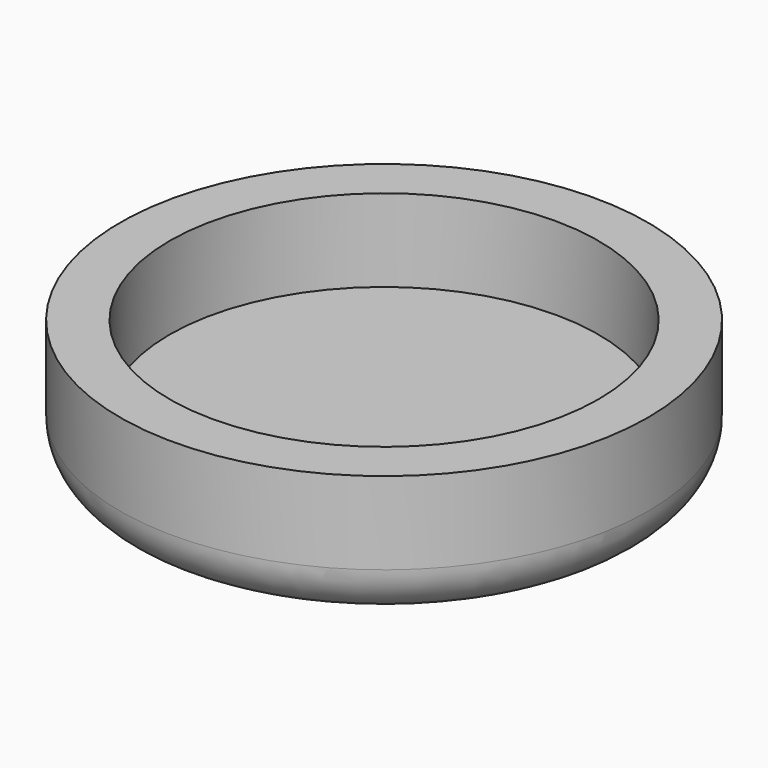
from build123d import *

# Parameters (mm, degrees)
F0_R     = 13
F1_DEPTH = 3
F0_R_2   = 16
F2_DEPTH = 8
F3_R     = 3


with BuildPart() as f1:
    # F0 (on Top) → F1 (new body)
    with BuildSketch(Plane.XY):
        Circle(F0_R)
    extrude(amount=F1_DEPTH)

    # F0 (on Top) → F2 (join)
    with BuildSketch(Plane.XY):
        Circle(F0_R_2)
        Circle(F0_R, mode=Mode.SUBTRACT)
    extrude(amount=F2_DEPTH)

    # F3
    f3_edges = [f1.edges().sort_by_distance(p)[0] for p in [
        (-16, 0, 0),
    ]]
    fillet(f3_edges, radius=F3_R)


solid = f1.part
